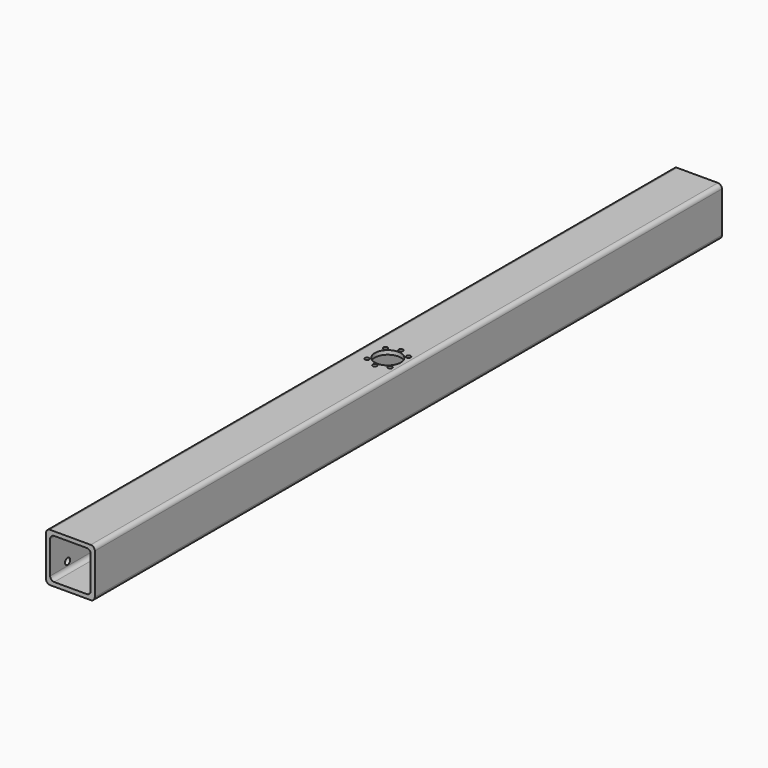
from build123d import *

# Parameters (mm, degrees)
F1_DEPTH = 1226
F2_R     = 5
F3_DEPTH = 25.4
F4_R     = 3.3
F4_R_2   = 20.25
F5_DEPTH = 76.201
F6_W     = 51.969446
F6_H     = 157.89732
F6_R     = 13
F7_DEPTH = 6.35


with BuildPart() as f1:
    # F0 (on Front) → F1 (new body)
    with BuildSketch(Plane.XZ):
        with BuildLine():
            Line((50.800001, 36.691132), (-12.699999, 36.691132))
            ThreePointArc((-12.699999, 36.691132), (-17.190127, 34.83126), (-19.049999, 30.341132))
            Line((-19.049999, 30.341132), (-19.049999, -33.158868))
            ThreePointArc((-19.049999, -33.158868), (-17.190127, -37.648996), (-12.699999, -39.508868))
            Line((-12.699999, -39.508868), (50.800001, -39.508868))
            ThreePointArc((50.800001, -39.508868), (55.290129, -37.648996), (57.150001, -33.158868))
            Line((57.150001, -33.158868), (57.150001, 30.341132))
            ThreePointArc((57.150001, 30.341132), (55.290129, 34.83126), (50.800001, 36.691132))
        make_face()
        with BuildLine():
            ThreePointArc((-12.699999, 23.991132), (-10.840127, 28.48126), (-6.349999, 30.341132))
            Line((-6.349999, 30.341132), (44.450001, 30.341132))
            ThreePointArc((44.450001, 30.341132), (48.940129, 28.48126), (50.800001, 23.991132))
            Line((50.800001, 23.991132), (50.800001, -26.808868))
            ThreePointArc((50.800001, -26.808868), (48.940129, -31.298996), (44.450001, -33.158868))
            Line((44.450001, -33.158868), (-6.349999, -33.158868))
            ThreePointArc((-6.349999, -33.158868), (-10.840127, -31.298996), (-12.699999, -26.808868))
            Line((-12.699999, -26.808868), (-12.699999, 23.991132))
        make_face(mode=Mode.SUBTRACT)
    extrude(amount=F1_DEPTH)

    # F2 (on face) → F3 (cut)
    with BuildSketch(Plane(origin=(-19.049999, 0, 0), x_dir=(0, -1, 0), z_dir=(-1, 0, 0))):
        with Locations((34.062, 17.641132)):
            Circle(F2_R)
        with Locations((34.062, -20.458868)):
            Circle(F2_R)
        with Locations((1191.938, -20.458868)):
            Circle(F2_R)
        with Locations((1191.938, 17.641132)):
            Circle(F2_R)
    extrude(amount=-F3_DEPTH, mode=Mode.SUBTRACT)

    # F4 (on face) → F5 (cut, through all)
    with BuildSketch(Plane(origin=(0, 0, -39.508868), x_dir=(1, 0, 0), z_dir=(0, 0, -1))):
        with Locations((25.012778, 638.5)):
            Circle(F4_R)
        with Locations((6.981556, 631.031223)):
            Circle(F4_R)
        with Locations((6.981556, 594.968777)):
            Circle(F4_R)
        with Locations((25.012778, 587.5)):
            Circle(F4_R)
        with Locations((43.044001, 594.968777)):
            Circle(F4_R)
        with Locations((43.044001, 631.031223)):
            Circle(F4_R)
        with Locations((25.012778, 613)):
            Circle(F4_R_2)
    extrude(amount=-F5_DEPTH, mode=Mode.SUBTRACT)

    # F6 (on face) → F7 (join)
    with BuildSketch(Plane(origin=(0, 0, -39.508868), x_dir=(1, 0, 0), z_dir=(0, 0, -1))):
        with Locations((22.14342, 620.64044)):
            Rectangle(F6_W, F6_H)
        with Locations((25.012778, 613)):
            Circle(F6_R, mode=Mode.SUBTRACT)
    extrude(amount=-F7_DEPTH)


solid = f1.part
